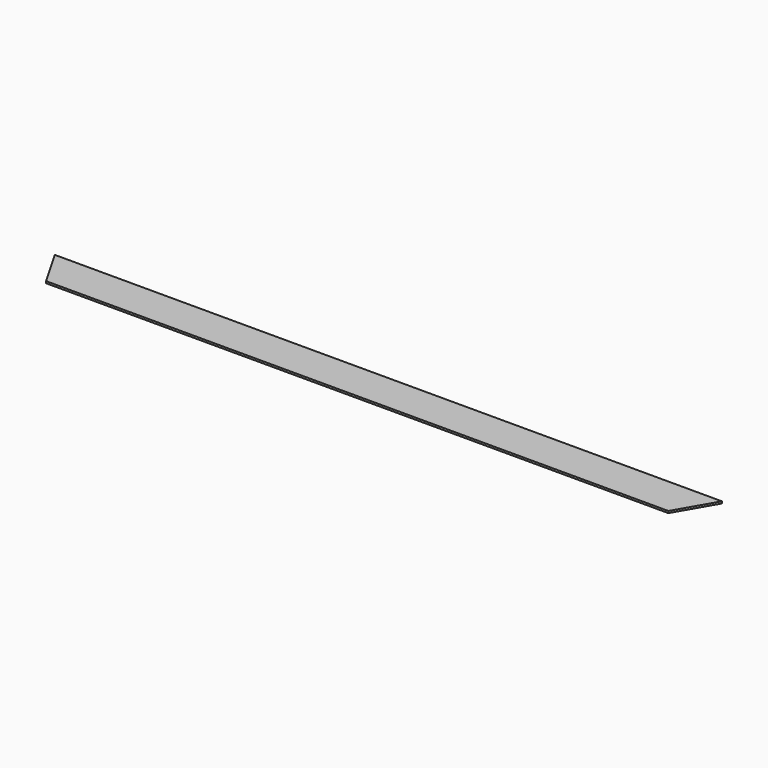
from build123d import *

# Parameters (mm, degrees)
F0_W     = 1016
F0_H     = 63.5
F1_DEPTH = 3.175


with BuildPart() as f1:
    # F0 (on Top) → F1 (new body)
    with BuildSketch(Plane.XY):
        Rectangle(F0_W, F0_H)
        Polygon((544.661742, 31.75), (508, 31.75), (508, -31.75), align=None)
        Polygon((-508, -31.75), (-508, 31.75), (-544.661742, 31.75), align=None)
    extrude(amount=F1_DEPTH)


solid = f1.part
